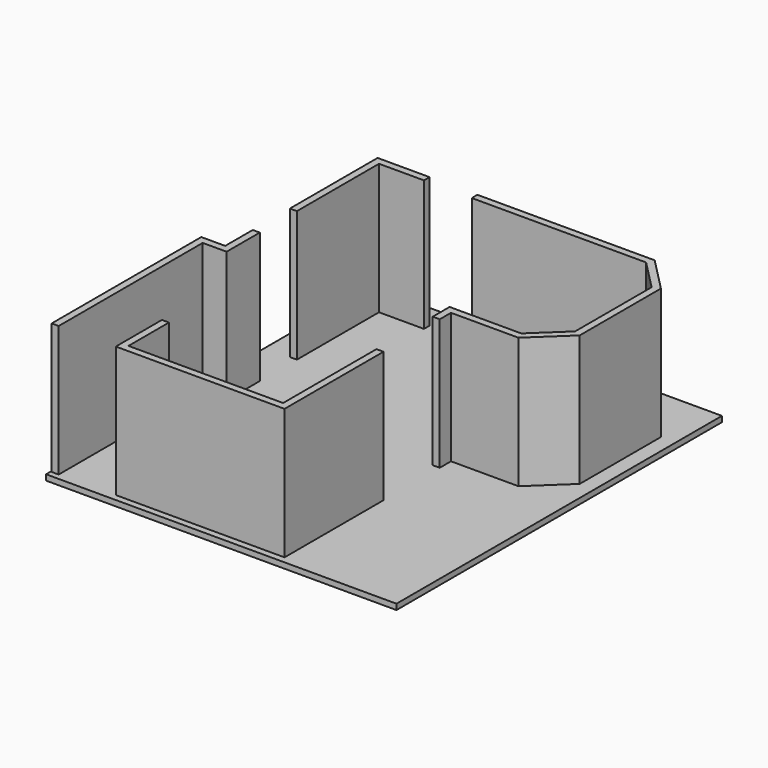
from build123d import *

# Parameters (mm, degrees)
SKETCH001_W  = 249.235731
SKETCH001_H  = 289.366922
PAD_DEPTH    = 4
PAD001_DEPTH = 93


with BuildPart() as part:
    # Sketch001 → Pad (new body)
    with BuildSketch(Plane.XY):
        with Locations((101.953362, -122.984355)):
            Rectangle(SKETCH001_W, SKETCH001_H)
    extrude(amount=PAD_DEPTH)

    # Sketch (on Face6 of Pad) → Pad001 (join)
    with BuildSketch(Plane.XY.offset(4)):
        Polygon((-17, -135.5), (0, -135.5), (0, -106), (-5, -106), (-5, -130.5), (-22, -130.5), (-22, -263.55), (-17, -263.55), align=None)
        Polygon((0, 0), (32, 0), (32, 5), (-5, 5), (-5, -73), (0, -73), align=None)
        Polygon((66, 5), (66, 0), (190, 0), (211.023543, -21.401183), (211.023543, -89.401183), (189.213253, -110), (138.213253, -110), (138.213253, -125), (143.213253, -125), (143.213253, -115), (191.201161, -115), (216.023543, -91.5564), (216.023543, -19.356138), (192.097187, 5), align=None)
        Polygon((138.2, -257.999998), (28.2, -257.999998), (28.2, -221.999998), (23.2, -221.999998), (23.2, -262.999998), (143.2, -262.999998), (143.2, -174.999998), (138.2, -174.999998), align=None)
    extrude(amount=PAD001_DEPTH)


solid = part.part
